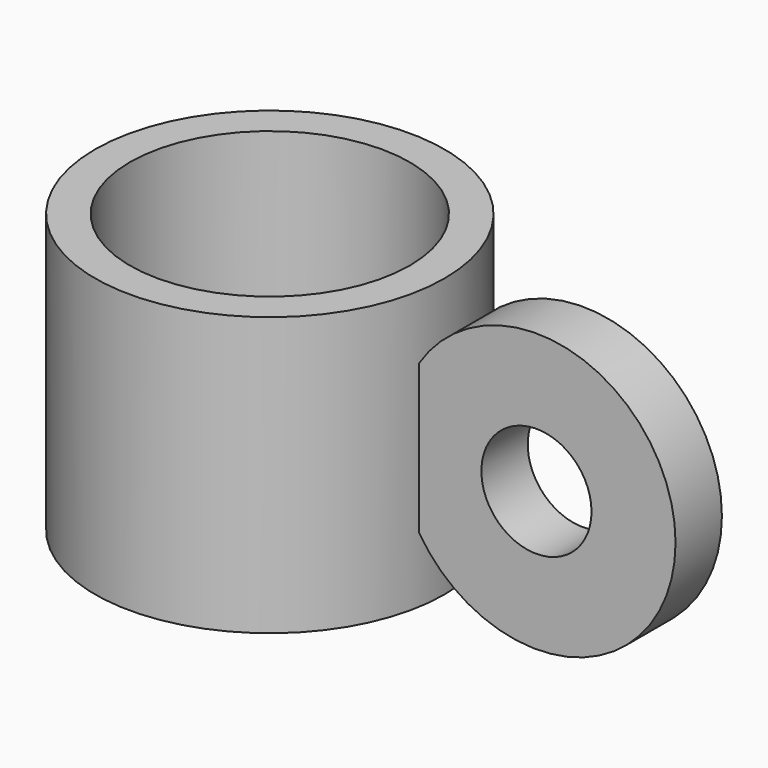
from build123d import *

# Parameters (mm, degrees)
SKETCH_R      = 30.15
SKETCH_R_2    = 24.15
PAD_DEPTH     = 48
SKETCH001_R   = 24
SKETCH001_R_2 = 9.5
PAD001_DEPTH  = 10


with BuildPart() as part:
    # Sketch → Pad (new body)
    with BuildSketch(Plane.XY):
        Circle(SKETCH_R)
        Circle(SKETCH_R_2, mode=Mode.SUBTRACT)
    extrude(amount=PAD_DEPTH)

    # Sketch001 → Pad001 (join)
    with BuildSketch(Plane.XZ.offset(-5)):
        with Locations((50, 24.15)):
            Circle(SKETCH001_R)
        with Locations((50, 24.15)):
            Circle(SKETCH001_R_2, mode=Mode.SUBTRACT)
    extrude(amount=PAD001_DEPTH)


solid = part.part
